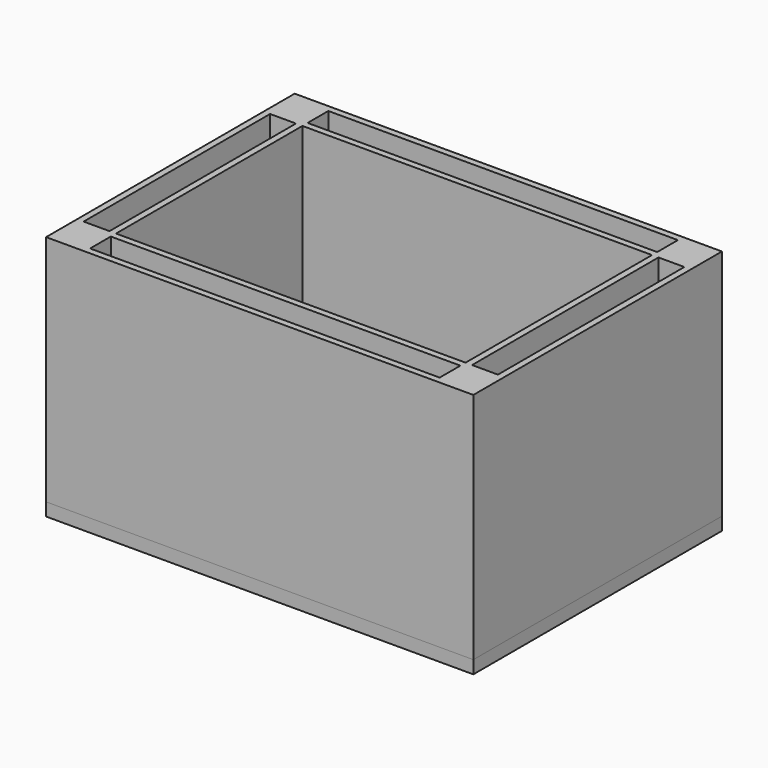
from build123d import *

# Parameters (mm, degrees)
F0_W     = 838.2
F0_H     = 609.6
F0_W_2   = 685.8
F0_H_2   = 12.7
F0_W_3   = 12.7
F0_H_3   = 457.2
F0_W_4   = 50.8
F0_H_4   = 50.8
F1_DEPTH = 457.2
F2_DEPTH = 25.4


with BuildPart() as f1:
    # F0 (on Top) → F1 (new body)
    with BuildSketch(Plane.XY):
        Rectangle(F0_W, F0_H)
        Polygon((406.4, -228.6), (406.4, -241.3), (406.4, -292.1), (355.6, -292.1), (342.9, -292.1), (-342.9, -292.1), (-355.6, -292.1), (-406.4, -292.1), (-406.4, -241.3), (-406.4, -228.6), (-406.4, 228.6), (-406.4, 241.3), (-406.4, 292.1), (-355.6, 292.1), (-342.9, 292.1), (342.9, 292.1), (355.6, 292.1), (406.4, 292.1), (406.4, 241.3), (406.4, 228.6), align=None, mode=Mode.SUBTRACT)
        with Locations((0, -234.95)):
            Rectangle(F0_W_2, F0_H_2)
        with Locations((0, 234.95)):
            Rectangle(F0_W_2, F0_H_2)
        with Locations((-349.25, 0)):
            Rectangle(F0_W_3, F0_H_3)
        with Locations((349.25, 0)):
            Rectangle(F0_W_3, F0_H_3)
        with Locations((-381, 266.7)):
            Rectangle(F0_W_4, F0_H_4)
        with Locations((381, 266.7)):
            Rectangle(F0_W_4, F0_H_4)
        with Locations((381, -266.7)):
            Rectangle(F0_W_4, F0_H_4)
        with Locations((-381, -266.7)):
            Rectangle(F0_W_4, F0_H_4)
        with Locations((-381, 234.95)):
            Rectangle(F0_W_4, F0_H_2)
        with Locations((-349.25, 266.7)):
            Rectangle(F0_W_3, F0_H_4)
        with Locations((349.25, 266.7)):
            Rectangle(F0_W_3, F0_H_4)
        with Locations((381, 234.95)):
            Rectangle(F0_W_4, F0_H_2)
        with Locations((349.25, -266.7)):
            Rectangle(F0_W_3, F0_H_4)
        with Locations((381, -234.95)):
            Rectangle(F0_W_4, F0_H_2)
        with Locations((-381, -234.95)):
            Rectangle(F0_W_4, F0_H_2)
        with Locations((-349.25, -266.7)):
            Rectangle(F0_W_3, F0_H_4)
        with Locations((349.25, -234.95)):
            Rectangle(F0_W_3, F0_H_2)
        with Locations((-349.25, -234.95)):
            Rectangle(F0_W_3, F0_H_2)
        with Locations((-349.25, 234.95)):
            Rectangle(F0_W_3, F0_H_2)
        with Locations((349.25, 234.95)):
            Rectangle(F0_W_3, F0_H_2)
    extrude(amount=F1_DEPTH)


with BuildPart() as f2:
    # F0 (on Top) → F2 (new body)
    with BuildSketch(Plane.XY):
        Rectangle(F0_W, F0_H)
        Polygon((406.4, -228.6), (406.4, -241.3), (406.4, -292.1), (355.6, -292.1), (342.9, -292.1), (-342.9, -292.1), (-355.6, -292.1), (-406.4, -292.1), (-406.4, -241.3), (-406.4, -228.6), (-406.4, 228.6), (-406.4, 241.3), (-406.4, 292.1), (-355.6, 292.1), (-342.9, 292.1), (342.9, 292.1), (355.6, 292.1), (406.4, 292.1), (406.4, 241.3), (406.4, 228.6), align=None, mode=Mode.SUBTRACT)
        Rectangle(F0_W_2, F0_H_3)
        with Locations((0, 266.7)):
            Rectangle(F0_W_2, F0_H_4)
        with Locations((0, -266.7)):
            Rectangle(F0_W_2, F0_H_4)
        with Locations((381, 0)):
            Rectangle(F0_W_4, F0_H_3)
        with Locations((-381, 0)):
            Rectangle(F0_W_4, F0_H_3)
        with Locations((0, -234.95)):
            Rectangle(F0_W_2, F0_H_2)
        with Locations((0, 234.95)):
            Rectangle(F0_W_2, F0_H_2)
        with Locations((-349.25, 0)):
            Rectangle(F0_W_3, F0_H_3)
        with Locations((349.25, 0)):
            Rectangle(F0_W_3, F0_H_3)
        with Locations((-381, 266.7)):
            Rectangle(F0_W_4, F0_H_4)
        with Locations((381, -266.7)):
            Rectangle(F0_W_4, F0_H_4)
        with Locations((381, 266.7)):
            Rectangle(F0_W_4, F0_H_4)
        with Locations((-381, -266.7)):
            Rectangle(F0_W_4, F0_H_4)
        with Locations((-381, 234.95)):
            Rectangle(F0_W_4, F0_H_2)
        with Locations((381, 234.95)):
            Rectangle(F0_W_4, F0_H_2)
        with Locations((-381, -234.95)):
            Rectangle(F0_W_4, F0_H_2)
        with Locations((-349.25, 266.7)):
            Rectangle(F0_W_3, F0_H_4)
        with Locations((381, -234.95)):
            Rectangle(F0_W_4, F0_H_2)
        with Locations((349.25, -266.7)):
            Rectangle(F0_W_3, F0_H_4)
        with Locations((-349.25, -266.7)):
            Rectangle(F0_W_3, F0_H_4)
        with Locations((349.25, 266.7)):
            Rectangle(F0_W_3, F0_H_4)
        with Locations((-349.25, -234.95)):
            Rectangle(F0_W_3, F0_H_2)
        with Locations((349.25, 234.95)):
            Rectangle(F0_W_3, F0_H_2)
        with Locations((-349.25, 234.95)):
            Rectangle(F0_W_3, F0_H_2)
        with Locations((349.25, -234.95)):
            Rectangle(F0_W_3, F0_H_2)
    extrude(amount=-F2_DEPTH)


solid = Compound([f1.part, f2.part])
